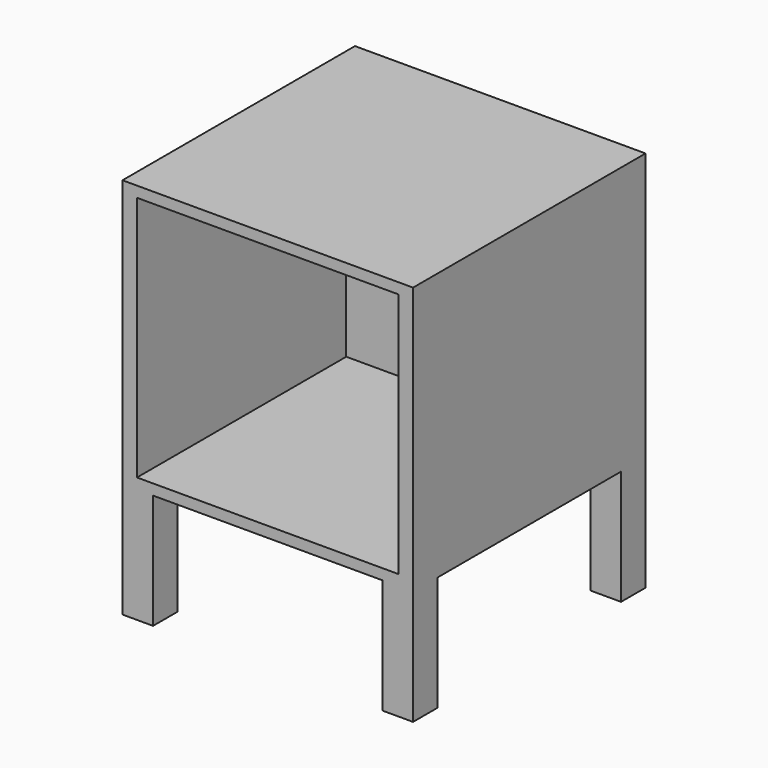
from build123d import *

# Parameters (mm, degrees)
F0_W      = 380
F0_H      = 380
F1_DEPTH  = 350
F2_W      = 342
F2_H      = 322
F3_DEPTH  = 342
F4_W      = 40
F4_H      = 40
F5_DEPTH  = 150
F6_W      = 40
F6_H      = 40
F7_DEPTH  = 150
F8_W      = 40
F8_H      = 40
F9_DEPTH  = 150
F10_W     = 40
F10_H     = 40
F11_DEPTH = 150


with BuildPart() as f1:
    # F0 (on Top) → F1 (new body)
    with BuildSketch(Plane.XY):
        Rectangle(F0_W, F0_H)
    extrude(amount=F1_DEPTH)

    # F2 (on face) → F3 (cut)
    with BuildSketch(Plane.XZ.offset(190)):
        with Locations((0, 175)):
            Rectangle(F2_W, F2_H)
    extrude(amount=-F3_DEPTH, mode=Mode.SUBTRACT)

    # F4 (on face) → F5 (join)
    with BuildSketch(Plane(origin=(0, 0, 0), x_dir=(1, 0, 0), z_dir=(0, 0, -1))):
        with Locations((-170, 170)):
            Rectangle(F4_W, F4_H)
    extrude(amount=F5_DEPTH)

    # F6 (on face) → F7 (join)
    with BuildSketch(Plane(origin=(0, 0, 0), x_dir=(1, 0, 0), z_dir=(0, 0, -1))):
        with Locations((170, 170)):
            Rectangle(F6_W, F6_H)
    extrude(amount=F7_DEPTH)

    # F8 (on face) → F9 (join)
    with BuildSketch(Plane(origin=(0, 0, 0), x_dir=(1, 0, 0), z_dir=(0, 0, -1))):
        with Locations((-170, -170)):
            Rectangle(F8_W, F8_H)
    extrude(amount=F9_DEPTH)

    # F10 (on face) → F11 (join)
    with BuildSketch(Plane(origin=(0, 0, 0), x_dir=(1, 0, 0), z_dir=(0, 0, -1))):
        with Locations((170, -170)):
            Rectangle(F10_W, F10_H)
    extrude(amount=F11_DEPTH)


solid = f1.part
